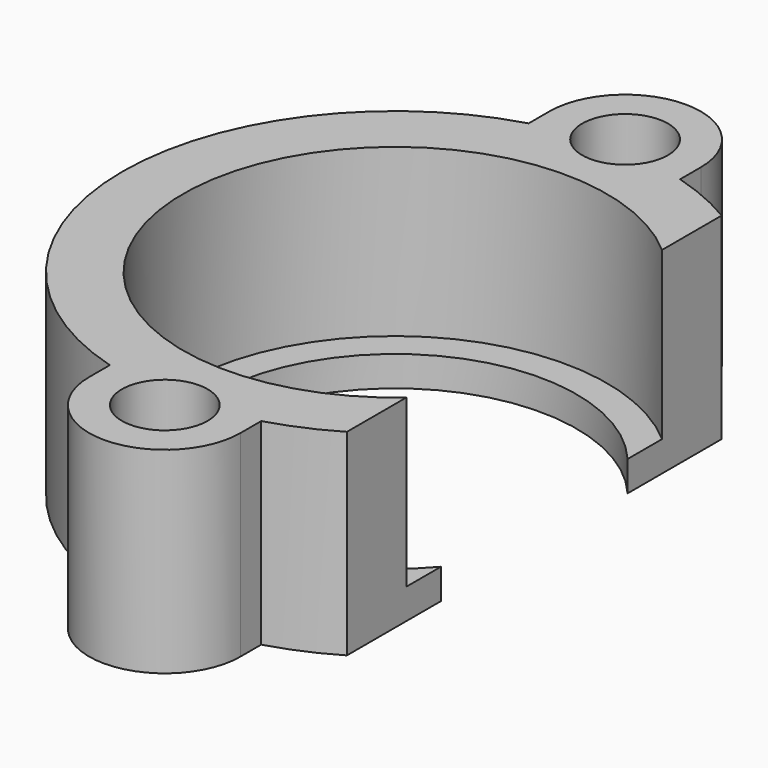
from build123d import *

# Parameters (mm, degrees)
F0_R     = 2.2479
F0_R_2   = 9.525
F1_DEPTH = 1.5875
F2_R     = 2.2479
F2_R_2   = 11.1125
F3_DEPTH = 8.73125
F5_DEPTH = 10.31875


with BuildPart() as f1:
    # F0 (on Top) → F1 (new body)
    with BuildSketch(Plane.XY):
        with BuildLine():
            Line((3.96875, -15.08125), (3.96875, -13.725221))
            ThreePointArc((3.96875, -13.725221), (14.2875, 0), (3.96875, 13.725221))
            Line((3.96875, 13.725221), (3.96875, 15.08125))
            ThreePointArc((3.96875, 15.08125), (0, 19.05), (-3.96875, 15.08125))
            Line((-3.96875, 15.08125), (-3.96875, 13.725221))
            ThreePointArc((-3.96875, 13.725221), (-14.2875, 0), (-3.96875, -13.725221))
            Line((-3.96875, -13.725221), (-3.96875, -15.08125))
            ThreePointArc((-3.96875, -15.08125), (0, -19.05), (3.96875, -15.08125))
        make_face()
        with Locations((0, -15.08125)):
            Circle(F0_R, mode=Mode.SUBTRACT)
        Circle(F0_R_2, mode=Mode.SUBTRACT)
        with Locations((0, 15.08125)):
            Circle(F0_R, mode=Mode.SUBTRACT)
    extrude(amount=F1_DEPTH)

    # F2 (on face) → F3 (join)
    with BuildSketch(Plane.XY.offset(1.5875)):
        with BuildLine():
            ThreePointArc((-3.96875, 13.725221), (-14.2875, 0), (-3.96875, -13.725221))
            Line((-3.96875, -13.725221), (-3.96875, -15.08125))
            ThreePointArc((-3.96875, -15.08125), (0, -19.05), (3.96875, -15.08125))
            Line((3.96875, -15.08125), (3.96875, -13.725221))
            ThreePointArc((3.96875, -13.725221), (14.2875, 0), (3.96875, 13.725221))
            Line((3.96875, 13.725221), (3.96875, 15.08125))
            ThreePointArc((3.96875, 15.08125), (0, 19.05), (-3.96875, 15.08125))
            Line((-3.96875, 15.08125), (-3.96875, 13.725221))
        make_face()
        with Locations((0, -15.08125)):
            Circle(F2_R, mode=Mode.SUBTRACT)
        Circle(F2_R_2, mode=Mode.SUBTRACT)
        with Locations((0, 15.08125)):
            Circle(F2_R, mode=Mode.SUBTRACT)
    extrude(amount=F3_DEPTH)

    # F4 (on face) → F5 (cut, through all)
    with BuildSketch(Plane.XY.offset(10.31875)):
        Polygon((7.304354, 0), (7.304354, -14.2875), (14.2875, -14.2875), (14.2875, 14.2875), (7.304354, 14.2875), align=None)
    extrude(amount=-F5_DEPTH, mode=Mode.SUBTRACT)


solid = f1.part
